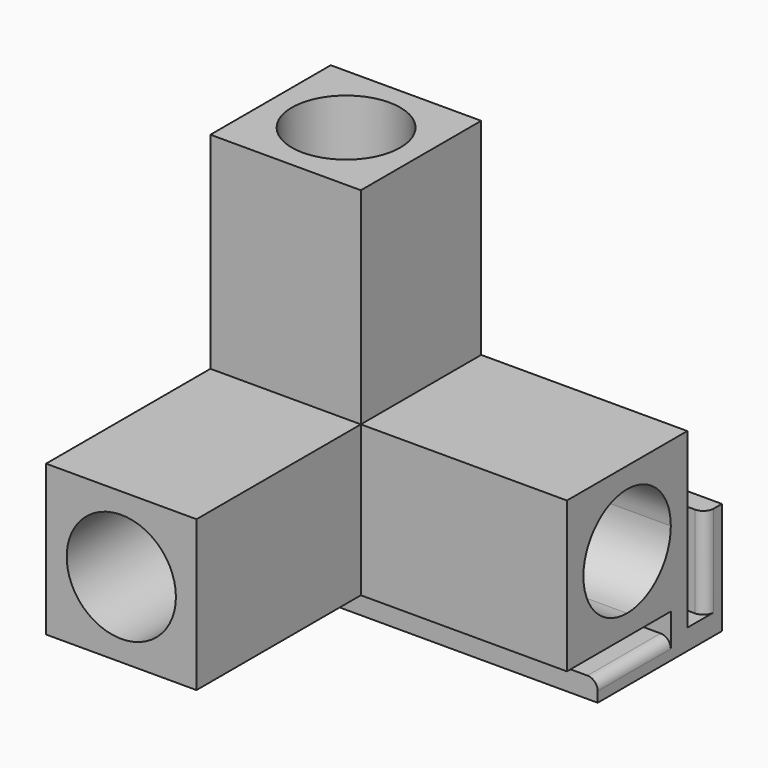
from build123d import *

# Parameters (mm, degrees)
F0_W      = 27
F0_H      = 15.9
F0_W_2    = 15.9
F0_H_2    = 27
F0_W_3    = 3
F0_H_3    = 3
F1_DEPTH  = 21.9
F2_DEPTH  = 51.8
F3_R      = 7.95
F6_DEPTH  = 30
F7_DEPTH  = 30
F4_R      = 7.9
F8_DEPTH  = 30
F9_W      = 3.3
F9_H      = 3
F10_DEPTH = 51.9
F11_R     = 1.5


with BuildPart() as f1:
    # F0 (on Front) → F1 (new body)
    with BuildSketch(Plane.XZ):
        with BuildLine():
            Line((-34.3576915575, 15.9), (-42.3076915575, 15.9))
            Line((-42.3076915575, 15.9), (-42.3076915575, 7.9499999931))
            ThreePointArc((-42.3076915575, 7.9499999931), (-39.9791904704, 13.571498908), (-34.3576915575, 15.9))
        make_face()
        with BuildLine():
            ThreePointArc((-34.3576915575, 15.9), (-39.9791904704, 13.571498908), (-42.3076915575, 7.9499999931))
            ThreePointArc((-42.3076915575, 7.9499999931), (-39.9791904655, 2.3285010871), (-34.3576915575, 0))
            ThreePointArc((-34.3576915575, 0), (-28.7361926471, 2.3285010896), (-26.4076915575, 7.95))
            ThreePointArc((-26.4076915575, 7.95), (-28.7361926471, 13.5714989104), (-34.3576915575, 15.9))
        make_face()
        Polygon((-42.3076915575, 18.9), (-42.3076915575, 45.9), (-26.4076915575, 45.9), (-26.4076915575, 18.9), (-23.4076915575, 18.9), (-23.4076915575, 48.9), (-45.3076915575, 48.9), (-45.3076915575, 18.9), align=None)
        with Locations((-9.9076915575, 7.95)):
            Rectangle(F0_W, F0_H)
        with Locations((-34.3576915575, 32.4)):
            Rectangle(F0_W_2, F0_H_2)
        with BuildLine():
            ThreePointArc((-34.3576915575, 0), (-39.9791904655, 2.3285010871), (-42.3076915575, 7.9499999931))
            Line((-42.3076915575, 7.9499999931), (-42.3076915575, 0))
            Line((-42.3076915575, 0), (-34.3576915575, 0))
        make_face()
        with BuildLine():
            Line((-26.4076915575, 0), (-26.4076915575, 7.95))
            ThreePointArc((-26.4076915575, 7.95), (-28.7361926471, 2.3285010896), (-34.3576915575, 0))
            Line((-34.3576915575, 0), (-26.4076915575, 0))
        make_face()
        with BuildLine():
            Line((-26.4076915575, 7.95), (-26.4076915575, 15.9))
            Line((-26.4076915575, 15.9), (-34.3576915575, 15.9))
            ThreePointArc((-34.3576915575, 15.9), (-28.7361926471, 13.5714989104), (-26.4076915575, 7.95))
        make_face()
        Polygon((6.5923084425, 18.9), (-23.4076915575, 18.9), (-23.4076915575, 15.9), (3.5923084425, 15.9), (3.5923084425, 0), (-23.4076915575, 0), (-23.4076915575, -3), (6.5923084425, -3), align=None)
        Polygon((-26.4076915575, 18.9), (-42.3076915575, 18.9), (-42.3076915575, 15.9), (-34.3576915575, 15.9), (-26.4076915575, 15.9), align=None)
        Polygon((-23.4076915575, 15.9), (-26.4076915575, 15.9), (-26.4076915575, 7.95), (-26.4076915575, 0), (-23.4076915575, 0), align=None)
        Polygon((-42.3076915575, 15.9), (-42.3076915575, 18.9), (-45.3076915575, 18.9), (-45.3076915575, -3), (-23.4076915575, -3), (-23.4076915575, 0), (-26.4076915575, 0), (-34.3576915575, 0), (-42.3076915575, 0), (-42.3076915575, 7.9499999931), align=None)
        with Locations((-24.9076915575, 17.4)):
            Rectangle(F0_W_3, F0_H_3)
    extrude(amount=F1_DEPTH)

    # F0 (on Front) → F2 (join)
    with BuildSketch(Plane.XZ):
        Polygon((-42.3076915575, 15.9), (-42.3076915575, 18.9), (-45.3076915575, 18.9), (-45.3076915575, -3), (-23.4076915575, -3), (-23.4076915575, 0), (-26.4076915575, 0), (-34.3576915575, 0), (-42.3076915575, 0), (-42.3076915575, 7.9499999931), align=None)
        with BuildLine():
            ThreePointArc((-34.3576915575, 15.9), (-39.9791904704, 13.571498908), (-42.3076915575, 7.9499999931))
            ThreePointArc((-42.3076915575, 7.9499999931), (-39.9791904655, 2.3285010871), (-34.3576915575, 0))
            ThreePointArc((-34.3576915575, 0), (-28.7361926471, 2.3285010896), (-26.4076915575, 7.95))
            ThreePointArc((-26.4076915575, 7.95), (-28.7361926471, 13.5714989104), (-34.3576915575, 15.9))
        make_face()
        Polygon((-26.4076915575, 18.9), (-42.3076915575, 18.9), (-42.3076915575, 15.9), (-34.3576915575, 15.9), (-26.4076915575, 15.9), align=None)
        Polygon((-23.4076915575, 15.9), (-26.4076915575, 15.9), (-26.4076915575, 7.95), (-26.4076915575, 0), (-23.4076915575, 0), align=None)
        with Locations((-24.9076915575, 17.4)):
            Rectangle(F0_W_3, F0_H_3)
        with BuildLine():
            Line((-26.4076915575, 7.95), (-26.4076915575, 15.9))
            Line((-26.4076915575, 15.9), (-34.3576915575, 15.9))
            ThreePointArc((-34.3576915575, 15.9), (-28.7361926471, 13.5714989104), (-26.4076915575, 7.95))
        make_face()
        with BuildLine():
            Line((-34.3576915575, 15.9), (-42.3076915575, 15.9))
            Line((-42.3076915575, 15.9), (-42.3076915575, 7.9499999931))
            ThreePointArc((-42.3076915575, 7.9499999931), (-39.9791904704, 13.571498908), (-34.3576915575, 15.9))
        make_face()
        with BuildLine():
            ThreePointArc((-34.3576915575, 0), (-39.9791904655, 2.3285010871), (-42.3076915575, 7.9499999931))
            Line((-42.3076915575, 7.9499999931), (-42.3076915575, 0))
            Line((-42.3076915575, 0), (-34.3576915575, 0))
        make_face()
        with BuildLine():
            Line((-26.4076915575, 0), (-26.4076915575, 7.95))
            ThreePointArc((-26.4076915575, 7.95), (-28.7361926471, 2.3285010896), (-34.3576915575, 0))
            Line((-34.3576915575, 0), (-26.4076915575, 0))
        make_face()
    extrude(amount=F2_DEPTH)

    # F3 (on face) → F6 (cut)
    with BuildSketch(Plane.XZ.offset(51.8)):
        with Locations((-34.3576915575, 7.95)):
            Circle(F3_R)
    extrude(amount=-F6_DEPTH, mode=Mode.SUBTRACT)

    # F5 (on face) → F7 (cut)
    with BuildSketch(Plane.YZ.offset(6.5923084425)):
        with BuildLine():
            ThreePointArc((-3, 7.95), (-5.3285010896, 13.5714989104), (-10.95, 15.9))
            ThreePointArc((-10.95, 15.9), (-16.5714989104, 13.5714989104), (-18.9, 7.95))
            ThreePointArc((-18.9, 7.95), (-16.5714989104, 2.3285010896), (-10.95, 0))
            ThreePointArc((-10.95, 0), (-5.3285010896, 2.3285010896), (-3, 7.95))
        make_face()
    extrude(amount=-F7_DEPTH, mode=Mode.SUBTRACT)

    # F4 (on face) → F8 (cut)
    with BuildSketch(Plane.XY.offset(48.9)):
        with Locations((-34.3576915575, -10.9)):
            Circle(F4_R)
    extrude(amount=-F8_DEPTH, mode=Mode.SUBTRACT)

    # F9 (on face) → F10 (join)
    with BuildSketch(Plane(origin=(-45.3076915575, 0, 0), x_dir=(0, -1, 0), z_dir=(-1, 0, 0))):
        Polygon((3, -3), (0, -3), (0, -6.3), (0, -9.3), (16.3, -9.3), (16.3, -6.3), (3, -6.3), align=None)
        with Locations((-1.65, -7.8)):
            Rectangle(F9_W, F9_H)
        Polygon((-3.3, -9.3), (-3.3, -6.3), (-3.3, 7), (-6.3, 7), (-6.3, -9.3), align=None)
    extrude(amount=-F10_DEPTH)

    # F11
    f11_edges = [f1.edges().sort_by_distance(p)[0] for p in [
        (-45.307692, -9.65, -6.3),
        (6.592308, -9.65, -6.3),
        (-45.307692, 3.3, 0.35),
        (6.592308, 3.3, 0.35),
    ]]
    fillet(f11_edges, radius=F11_R)


solid = f1.part
